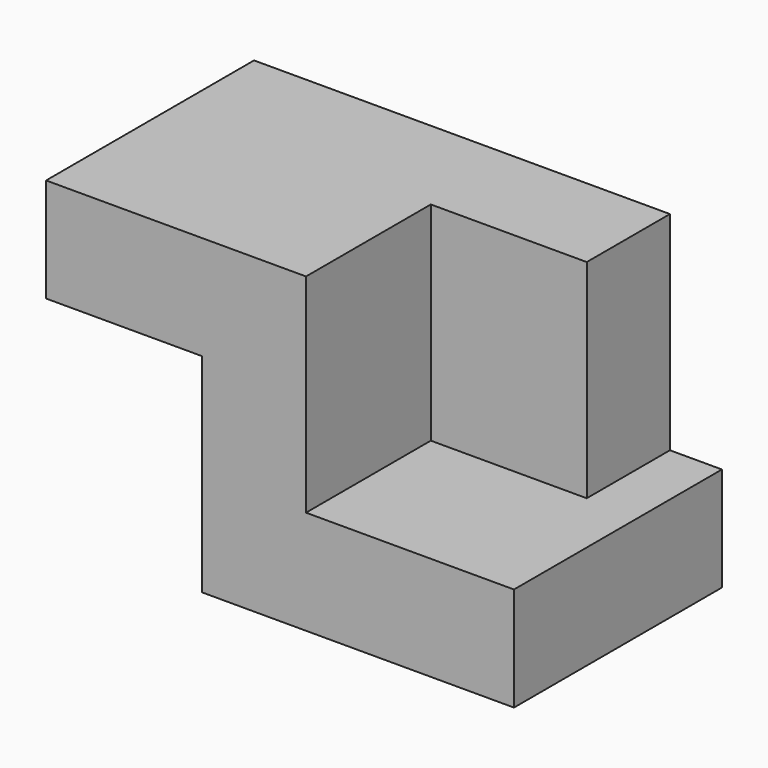
from build123d import *

# Parameters (mm, degrees)
F0_W     = 76.2
F0_H     = 63.5
F1_DEPTH = 25.4
F3_DEPTH = 50.8
F4_W     = 38.1
F4_H     = 25.4
F5_DEPTH = 63.5


with BuildPart() as f1:
    # F0 (on Top) → F1 (new body)
    with BuildSketch(Plane.XY):
        with Locations((-18.946174, 1.455378)):
            Rectangle(F0_W, F0_H)
    extrude(amount=F1_DEPTH)

    # F2 (on face) → F3 (join)
    with BuildSketch(Plane.XY.offset(25.4)):
        Polygon((-57.046174, 33.205378), (-57.046174, -30.294622), (-31.646174, -30.294622), (-31.646174, 7.805378), (6.453826, 7.805378), (6.453826, 33.205378), align=None)
    extrude(amount=F3_DEPTH)

    # F4 (on face) → F5 (join)
    with BuildSketch(Plane.XZ.offset(30.294622)):
        with Locations((-76.096174, 63.5)):
            Rectangle(F4_W, F4_H)
    extrude(amount=-F5_DEPTH)


solid = f1.part
